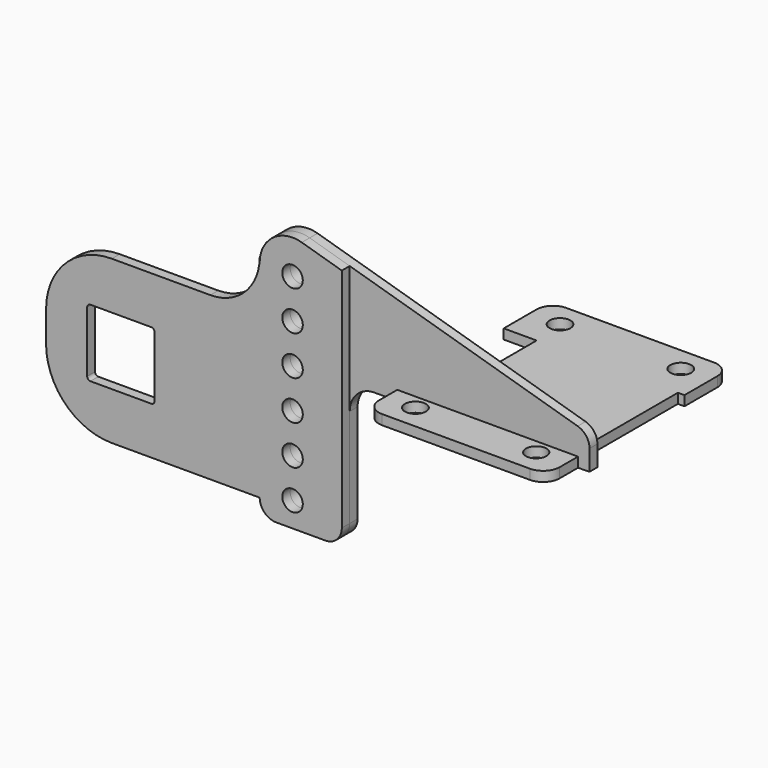
from build123d import *

# Parameters (mm, degrees)
F0_R     = 6.375
F0_R_2   = 6.25
F1_DEPTH = 6
F3_R     = 6.25
F4_DEPTH = 6
F5_DEPTH = 6
F6_R     = 6.25
F7_DEPTH = 6


with BuildPart() as f1:
    # F0 (on Top) → F1 (new body)
    with BuildSketch(Plane.XY):
        with BuildLine():
            ThreePointArc((55, 60), (52.071068, 67.071068), (45, 70))
            Line((45, 70), (-45, 70))
            ThreePointArc((-45, 70), (-52.071068, 67.071068), (-55, 60))
            Line((-55, 60), (-55, 35))
            Line((-55, 35), (-35, 35))
            Line((-35, 35), (-35, 0))
            Line((-35, 0), (-35, -35))
            Line((-35, -35), (-55, -35))
            Line((-55, -35), (-55, -60))
            ThreePointArc((-55, -60), (-52.071068, -67.071068), (-45, -70))
            Line((-45, -70), (45, -70))
            ThreePointArc((45, -70), (52.071068, -67.071068), (55, -60))
            Line((55, -60), (55, -35))
            Line((55, -35), (51, -35))
            Line((51, -35), (51, 35))
            Line((51, 35), (55, 35))
            Line((55, 35), (55, 60))
        make_face()
        with Locations((-36.75, -55)):
            Circle(F0_R, mode=Mode.SUBTRACT)
        with Locations((36.75, -55)):
            Circle(F0_R_2, mode=Mode.SUBTRACT)
        with Locations((-36.75, 55)):
            Circle(F0_R, mode=Mode.SUBTRACT)
        with Locations((36.75, 55)):
            Circle(F0_R, mode=Mode.SUBTRACT)
    extrude(amount=F1_DEPTH)


with BuildPart() as f4:
    # F3 (on offset) → F4 (new body)
    with BuildSketch(Plane.XZ.offset(46)):
        with BuildLine():
            Line((-55, 0), (-55, 6))
            Line((-55, 6), (55, 6))
            Line((55, 6), (55, 0))
            Line((55, 0), (61.998688, 0.135503))
            Line((61.998688, 0.135503), (61.998688, 12.646462))
            ThreePointArc((61.998688, 12.646462), (60.002897, 18.640847), (54.812159, 22.242523))
            Line((54.812159, 22.242523), (-108.320874, 70.071524))
            ThreePointArc((-108.320874, 70.071524), (-125.936585, 66.88782), (-133.947816, 50.879403))
            Line((-133.947816, 50.879403), (-133.947816, -75))
            ThreePointArc((-133.947816, -75), (-131.018884, -82.071068), (-123.947816, -85))
            Line((-123.947816, -85), (-93.947816, -85))
            ThreePointArc((-93.947816, -85), (-86.876748, -82.071068), (-83.947816, -75))
            Line((-83.947816, -75), (-83.947816, -15))
            ThreePointArc((-83.947816, -15), (-79.554418, -4.393398), (-68.947816, 0))
            Line((-68.947816, 0), (-55, 0))
        make_face()
        with Locations((-113.947816, -70)):
            Circle(F3_R, mode=Mode.SUBTRACT)
        with Locations((-113.947816, -46)):
            Circle(F3_R, mode=Mode.SUBTRACT)
        with Locations((-113.947816, -22)):
            Circle(F3_R, mode=Mode.SUBTRACT)
        with Locations((-113.947816, 2)):
            Circle(F3_R, mode=Mode.SUBTRACT)
        with Locations((-113.947816, 26)):
            Circle(F3_R, mode=Mode.SUBTRACT)
        with Locations((-113.947816, 50)):
            Circle(F3_R, mode=Mode.SUBTRACT)
    extrude(amount=-F4_DEPTH)


with BuildPart() as f5:
    # F0 (on Top) → F5 (new body)
    with BuildSketch(Plane.XY):
        with BuildLine():
            ThreePointArc((55, 60), (52.071068, 67.071068), (45, 70))
            Line((45, 70), (-45, 70))
            ThreePointArc((-45, 70), (-52.071068, 67.071068), (-55, 60))
            Line((-55, 60), (-55, 35))
            Line((-55, 35), (-35, 35))
            Line((-35, 35), (-35, 0))
            Line((-35, 0), (-35, -35))
            Line((-35, -35), (-55, -35))
            Line((-55, -35), (-55, -60))
            ThreePointArc((-55, -60), (-52.071068, -67.071068), (-45, -70))
            Line((-45, -70), (45, -70))
            ThreePointArc((45, -70), (52.071068, -67.071068), (55, -60))
            Line((55, -60), (55, -35))
            Line((55, -35), (51, -35))
            Line((51, -35), (51, 35))
            Line((51, 35), (55, 35))
            Line((55, 35), (55, 60))
        make_face()
        with Locations((-36.75, -55)):
            Circle(F0_R, mode=Mode.SUBTRACT)
        with Locations((36.75, -55)):
            Circle(F0_R_2, mode=Mode.SUBTRACT)
        with Locations((-36.75, 55)):
            Circle(F0_R, mode=Mode.SUBTRACT)
        with Locations((36.75, 55)):
            Circle(F0_R, mode=Mode.SUBTRACT)
    extrude(amount=F5_DEPTH)


with BuildPart() as f7:
    # F6 (on face) → F7 (new body)
    with BuildSketch(Plane.XZ.offset(46)):
        with BuildLine():
            Line((-83.947816, -75), (-83.947816, -15))
            Line((-83.947816, -15), (-83.947816, 62.925583))
            Line((-83.947816, 62.925583), (-108.320874, 70.071524))
            ThreePointArc((-108.320874, 70.071524), (-121.384794, 69.445268), (-131.268324, 60.879403))
            ThreePointArc((-131.268324, 60.879403), (-133.266332, 56.055784), (-133.947816, 50.879403))
            Line((-133.947816, 50.879403), (-133.947816, 53.758805))
            ThreePointArc((-133.947816, 53.758805), (-142.734612, 32.545602), (-163.947816, 23.758805))
            Line((-163.947816, 23.758805), (-223.947816, 23.758805))
            ThreePointArc((-223.947816, 23.758805), (-252.232087, 12.043077), (-263.947816, -16.241195))
            Line((-263.947816, -16.241195), (-263.947816, -35))
            ThreePointArc((-263.947816, -35), (-252.232087, -63.284271), (-223.947816, -75))
            Line((-223.947816, -75), (-133.947816, -75))
            ThreePointArc((-133.947816, -75), (-131.018884, -82.071068), (-123.947816, -85))
            Line((-123.947816, -85), (-93.947816, -85))
            ThreePointArc((-93.947816, -85), (-86.876748, -82.071068), (-83.947816, -75))
        make_face()
        with BuildLine():
            Line((-236.947816, -5.120597), (-199.947816, -5.120597))
            ThreePointArc((-199.947816, -5.120597), (-198.533602, -5.706384), (-197.947816, -7.120597))
            Line((-197.947816, -7.120597), (-197.947816, -44.120597))
            ThreePointArc((-197.947816, -44.120597), (-198.533602, -45.534811), (-199.947816, -46.120597))
            Line((-199.947816, -46.120597), (-236.947816, -46.120597))
            ThreePointArc((-236.947816, -46.120597), (-238.362029, -45.534811), (-238.947816, -44.120597))
            Line((-238.947816, -44.120597), (-238.947816, -7.120597))
            ThreePointArc((-238.947816, -7.120597), (-238.362029, -5.706384), (-236.947816, -5.120597))
        make_face(mode=Mode.SUBTRACT)
        with Locations((-113.947816, -70)):
            Circle(F6_R, mode=Mode.SUBTRACT)
        with Locations((-113.947816, -46)):
            Circle(F6_R, mode=Mode.SUBTRACT)
        with Locations((-113.947816, -22)):
            Circle(F6_R, mode=Mode.SUBTRACT)
        with Locations((-113.947816, 2)):
            Circle(F6_R, mode=Mode.SUBTRACT)
        with Locations((-113.947816, 26)):
            Circle(F6_R, mode=Mode.SUBTRACT)
        with Locations((-113.947816, 50)):
            Circle(F6_R, mode=Mode.SUBTRACT)
    extrude(amount=F7_DEPTH)


solid = Compound([f1.part, f4.part, f5.part, f7.part])
